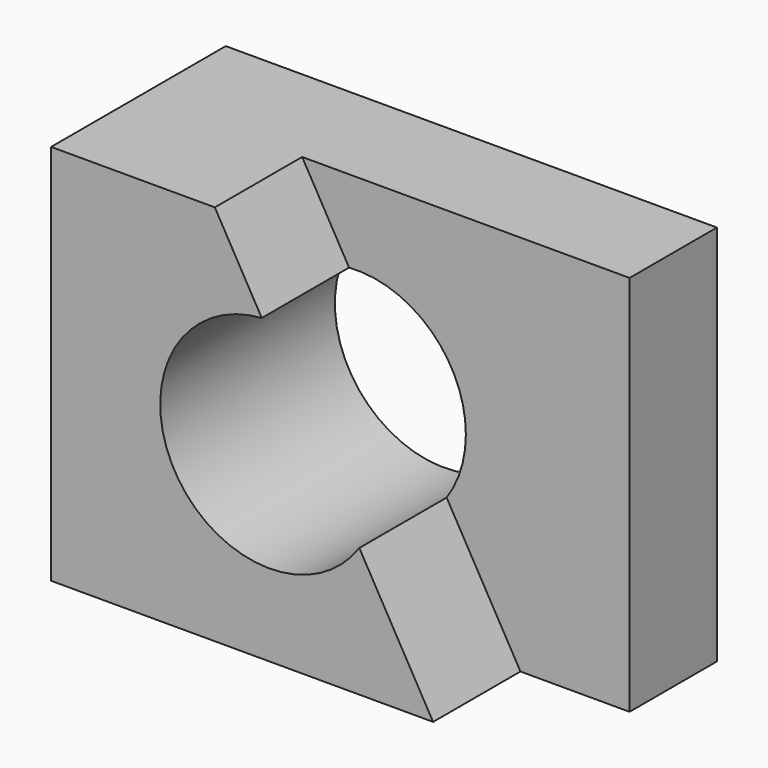
from build123d import *

# Parameters (mm, degrees)
F0_W     = 57.15
F0_H     = 44.45
F1_DEPTH = 25.4
F2_R     = 12.7
F3_DEPTH = 25.4
F5_DEPTH = 12.7


with BuildPart() as f1:
    # F0 (on Front) → F1 (new body)
    with BuildSketch(Plane.XZ):
        with Locations((28.575, 22.225)):
            Rectangle(F0_W, F0_H)
    extrude(amount=-F1_DEPTH)

    # F2 (on face) → F3 (cut)
    with BuildSketch(Plane.XZ):
        with Locations((25.4, 22.225)):
            Circle(F2_R)
    extrude(amount=-F3_DEPTH, mode=Mode.SUBTRACT)

    # F4 (on face) → F5 (cut)
    with BuildSketch(Plane.XZ):
        with BuildLine():
            Line((24.5106721265, 34.8938237786), (35.8631740273, 15.0269454522))
            ThreePointArc((35.8631740273, 15.0269454522), (37.5279081079, 18.4562011295), (38.1, 22.225))
            ThreePointArc((38.1, 22.225), (34.0601251725, 31.5143612265), (24.5106721265, 34.8938237786))
        make_face()
        with BuildLine():
            Line((44.45, 0), (57.15, 0))
            Line((57.15, 0), (57.15, 44.45))
            Line((57.15, 44.45), (19.05, 44.45))
            Line((19.05, 44.45), (24.5106721265, 34.8938237786))
            ThreePointArc((24.5106721265, 34.8938237786), (34.0601251725, 31.5143612265), (38.1, 22.225))
            ThreePointArc((38.1, 22.225), (37.5279081079, 18.4562011295), (35.8631740273, 15.0269454522))
            Line((35.8631740273, 15.0269454522), (44.45, 0))
        make_face()
    extrude(amount=-F5_DEPTH, mode=Mode.SUBTRACT)


solid = f1.part
